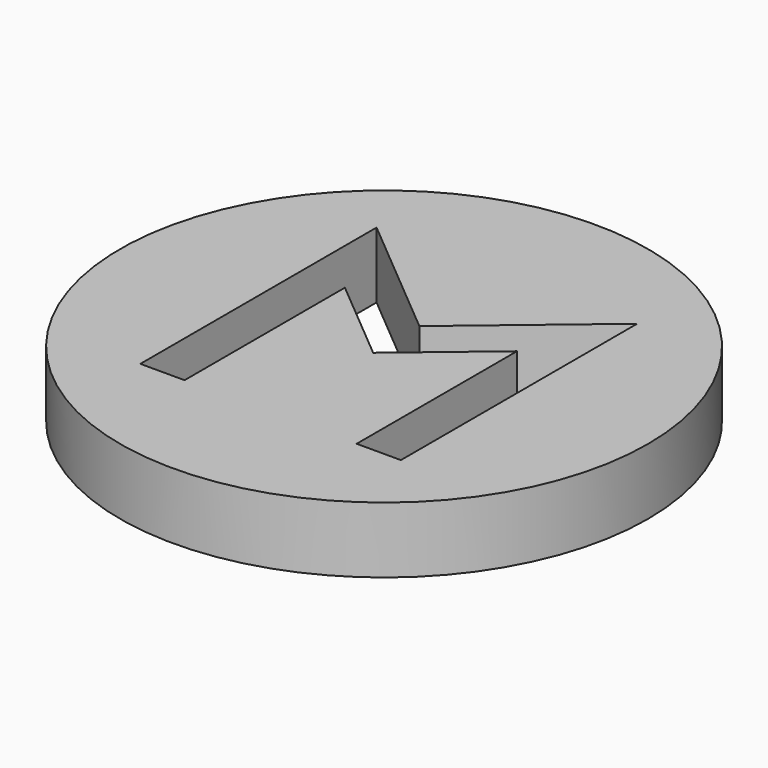
from build123d import *

# Parameters (mm, degrees)
F0_R     = 10
F1_DEPTH = 2.5
F3_DEPTH = 2.501


with BuildPart() as f1:
    # F0 (on Top) → F1 (new body)
    with BuildSketch(Plane.XY):
        Circle(F0_R)
    extrude(amount=F1_DEPTH)

    # F2 (on face) → F3 (cut, through all)
    with BuildSketch(Plane.XY.offset(2.5)):
        Polygon((4.935878, 5.812861), (0, 1.671168), (-4.935878, 5.812861), (-4.935878, -5.373671), (-3.259804, -5.373671), (-3.259804, 2.218509), (0, -0.516791), (3.259804, 2.218509), (3.259804, -5.373671), (4.935878, -5.373671), align=None)
    extrude(amount=-F3_DEPTH, mode=Mode.SUBTRACT)


solid = f1.part
